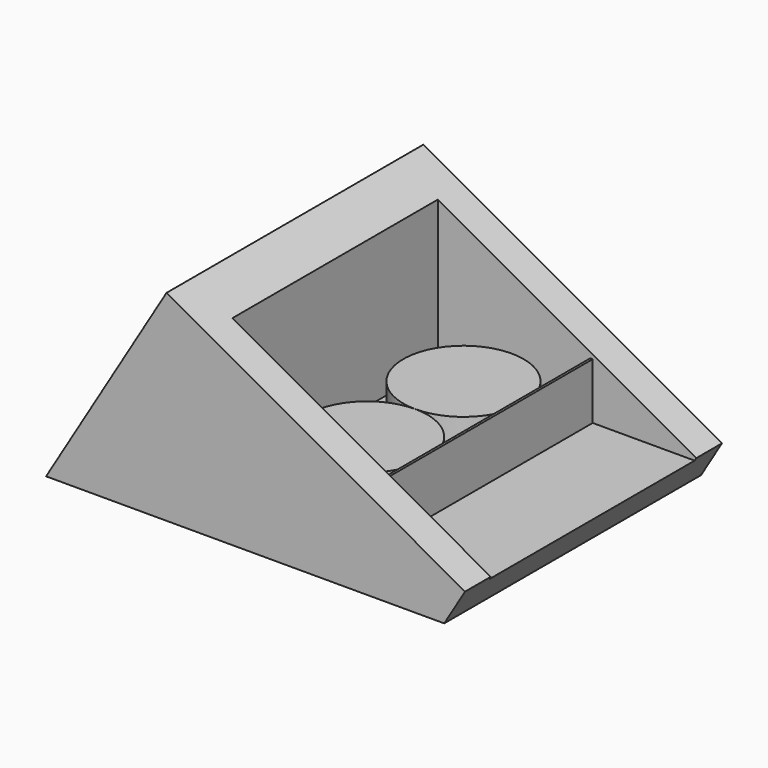
from build123d import *

# Parameters (mm, degrees)
LINEAREXTRUDE001_DEPTH           = 42
LINEAREXTRUDE001_PLACEMENT_ANGLE = 90
CUBE_W                           = 60
CUBE_H                           = 32
CUBE_DEPTH                       = 40
LINEAREXTRUDE_DEPTH              = 40
LINEAREXTRUDE_PLACEMENT_ANGLE    = 90
CUBE001_W                        = 0.3
CUBE001_H                        = 32
CUBE001_DEPTH                    = 7
CYLINDER001_R                    = 7.5
CYLINDER001_DEPTH                = 5
CYLINDER_R                       = 7.5
CYLINDER_DEPTH                   = 5


with BuildPart() as linearextrude001:
    # RefineLinearExtrude001 → LinearExtrude001 (new body)
    with BuildSketch(Plane(origin=(25, 8.333333, 0), x_dir=(0, -1, 0), z_dir=(0, 0, -1))):
        Polygon((8.333333, 25), (-16.666667, 10), (8.333333, -35), align=None)
    extrude(amount=-LINEAREXTRUDE001_DEPTH)


with BuildPart() as linearextrude001_1:
    # LinearExtrude001 placement: moved
    add(linearextrude001.part.moved(Location((49, 1, -1))).rotate(Axis((49, 1, -1), (1, 0, 0)), LINEAREXTRUDE001_PLACEMENT_ANGLE))


with BuildPart() as union:
    # cube → cube (new body)
    with BuildSketch(Plane(origin=(20, -36, 4), x_dir=(1, 0, 0), z_dir=(0, 0, 1))):
        with Locations((30, 16)):
            Rectangle(CUBE_W, CUBE_H)
    extrude(amount=CUBE_DEPTH)

    # union: union LinearExtrude001
    add(linearextrude001_1.part)


with BuildPart() as difference:
    # RefineLinearExtrude → LinearExtrude (new body)
    with BuildSketch(Plane(origin=(25, 8.333333, 0), x_dir=(0, -1, 0), z_dir=(0, 0, -1))):
        Polygon((8.333333, 25), (-16.666667, 10), (8.333333, -35), align=None)
    extrude(amount=-LINEAREXTRUDE_DEPTH)


with BuildPart() as difference_1:
    # LinearExtrude placement: moved
    add(difference.part.rotate(Axis((0, 0, 0), (1, 0, 0)), LINEAREXTRUDE_PLACEMENT_ANGLE))

    # difference: cut union
    add(union.part, mode=Mode.SUBTRACT)


with BuildPart() as cube001:
    # cube001 → cube001 (new body)
    with BuildSketch(Plane(origin=(9, -16, 0), x_dir=(1, 0, 0), z_dir=(0, 0, 1))):
        with Locations((0.15, 16)):
            Rectangle(CUBE001_W, CUBE001_H)
    extrude(amount=CUBE001_DEPTH)


with BuildPart() as cylinder001:
    # cylinder001 → cylinder001 (new body)
    with BuildSketch(Plane(origin=(0, 7.5, 0), x_dir=(1, 0, 0), z_dir=(0, 0, 1))):
        Circle(CYLINDER001_R)
    extrude(amount=CYLINDER001_DEPTH)


with BuildPart() as matrix_union:
    # cylinder → cylinder (new body)
    with BuildSketch(Plane(origin=(0, -7.5, 0), x_dir=(1, 0, 0), z_dir=(0, 0, 1))):
        Circle(CYLINDER_R)
    extrude(amount=CYLINDER_DEPTH)

    # union001: union cylinder001
    add(cylinder001.part)

    # Matrix_Union: union cube001
    add(cube001.part)


with BuildPart() as matrix_union_1:
    # Matrix_Union placement: moved
    add(matrix_union.part.moved(Location((30, -20, 4))))


solid = Compound([difference_1.part, matrix_union_1.part])
